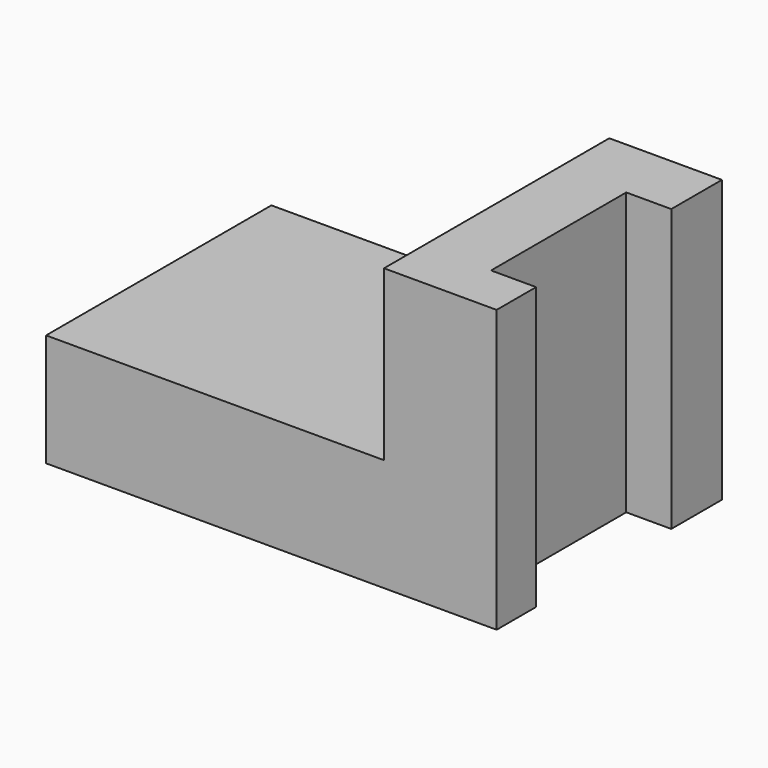
from build123d import *

# Parameters (mm, degrees)
F0_W     = 60
F0_H     = 50
F1_DEPTH = 20
F2_DEPTH = 50


with BuildPart() as f1:
    # F0 (on Top) → F1 (new body)
    with BuildSketch(Plane.XY):
        with Locations((30, 25)):
            Rectangle(F0_W, F0_H)
    extrude(amount=F1_DEPTH)

    # F0 (on Top) → F2 (join)
    with BuildSketch(Plane.XY):
        Polygon((60, 50), (60, 0), (80, 0), (80, 8.762887), (72, 8.762887), (72, 38.762887), (80, 38.762887), (80, 50), align=None)
    extrude(amount=F2_DEPTH)


solid = f1.part
